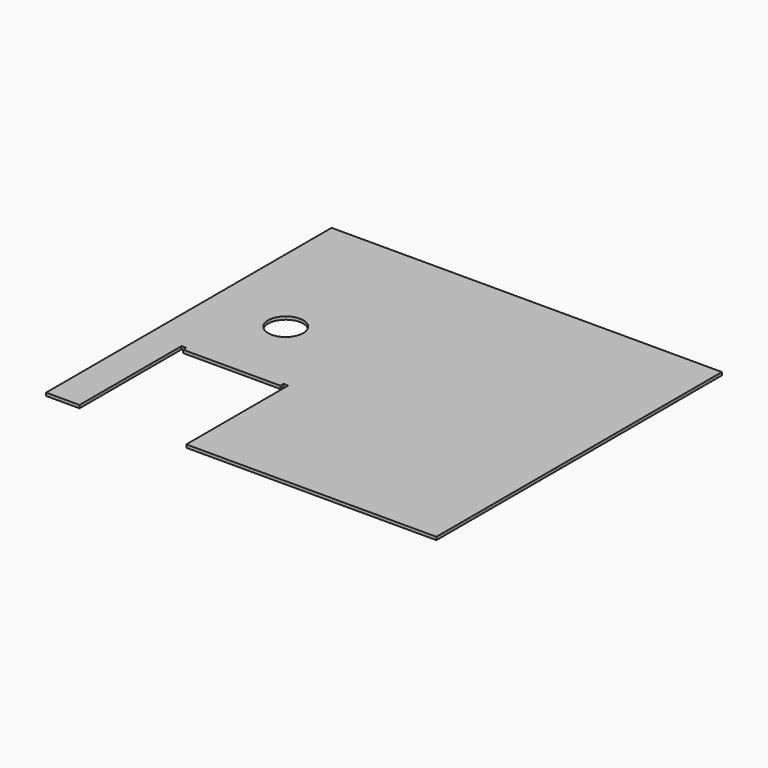
from build123d import *

# Parameters (mm, degrees)
SKETCH_R      = 34.925
EXTRUDE_DEPTH = 5.9944


with BuildPart() as part:
    # Sketch → Extrude (new body)
    with BuildSketch(Plane.XY):
        Polygon((0, 0), (777.875, 0), (777.875, -711.2), (279.4, -711.2), (279.4, -457.2), (269.875, -457.2), (269.875, -465.1248), (76.2, -465.1248), (76.2, -457.2), (66.675, -457.2), (66.675, -711.2), (0, -711.2), align=None)
        with Locations((152.4, -304.8)):
            Circle(SKETCH_R, mode=Mode.SUBTRACT)
    extrude(amount=EXTRUDE_DEPTH)


solid = part.part
